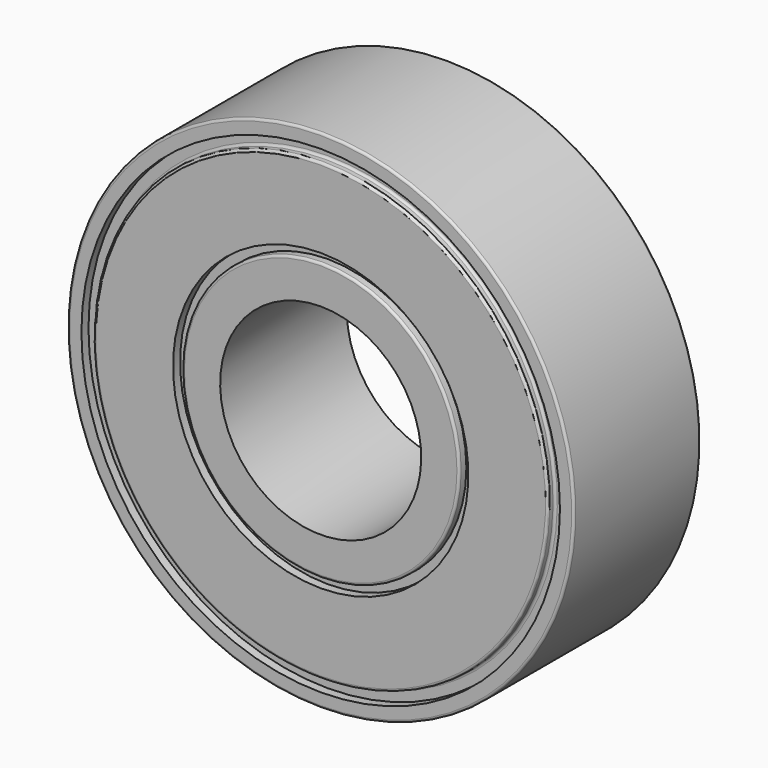
from build123d import *


with BuildPart() as f2:
    # F0 (on Right) → F2 (revolve)
    with BuildSketch(Plane.YZ):
        with BuildLine():
            Line((-10, 12.7), (0, 12.7))
            Line((0, 12.7), (10, 12.7))
            Line((10, 12.7), (10, 17.216075))
            ThreePointArc((10, 17.216075), (9.912132, 17.428207), (9.7, 17.516075))
            Line((9.7, 17.516075), (8.885675, 17.516075))
            Line((8.885675, 17.516075), (8.885675, 18.655911))
            Line((8.885675, 18.655911), (10, 18.655911))
            Line((10, 18.655911), (10, 28.40837))
            ThreePointArc((10, 28.40837), (9.912132, 28.620502), (9.7, 28.70837))
            Line((9.7, 28.70837), (9.185675, 28.70837))
            ThreePointArc((9.185675, 28.70837), (8.973543, 28.796238), (8.885675, 29.00837))
            Line((8.885675, 29.00837), (8.885675, 30.225912))
            Line((8.885675, 30.225912), (10, 30.225912))
            Line((10, 30.225912), (10, 31.7))
            ThreePointArc((10, 31.7), (9.912132, 31.912132), (9.7, 32))
            Line((9.7, 32), (0, 32))
            Line((0, 32), (-9.7, 32))
            ThreePointArc((-9.7, 32), (-9.912132, 31.912132), (-10, 31.7))
            Line((-10, 31.7), (-10, 30.225912))
            Line((-10, 30.225912), (-8.885675, 30.225912))
            Line((-8.885675, 30.225912), (-8.885675, 29.00837))
            ThreePointArc((-8.885675, 29.00837), (-8.973543, 28.796238), (-9.185675, 28.70837))
            Line((-9.185675, 28.70837), (-9.7, 28.70837))
            ThreePointArc((-9.7, 28.70837), (-9.912132, 28.620502), (-10, 28.40837))
            Line((-10, 28.40837), (-10, 18.655911))
            Line((-10, 18.655911), (-8.885675, 18.655911))
            Line((-8.885675, 18.655911), (-8.885675, 17.516075))
            Line((-8.885675, 17.516075), (-9.7, 17.516075))
            ThreePointArc((-9.7, 17.516075), (-9.912132, 17.428207), (-10, 17.216075))
            Line((-10, 17.216075), (-10, 12.7))
        make_face()
    revolve(axis=Axis((0, -1.806156, 0), (0, 1, 0)))


solid = f2.part
